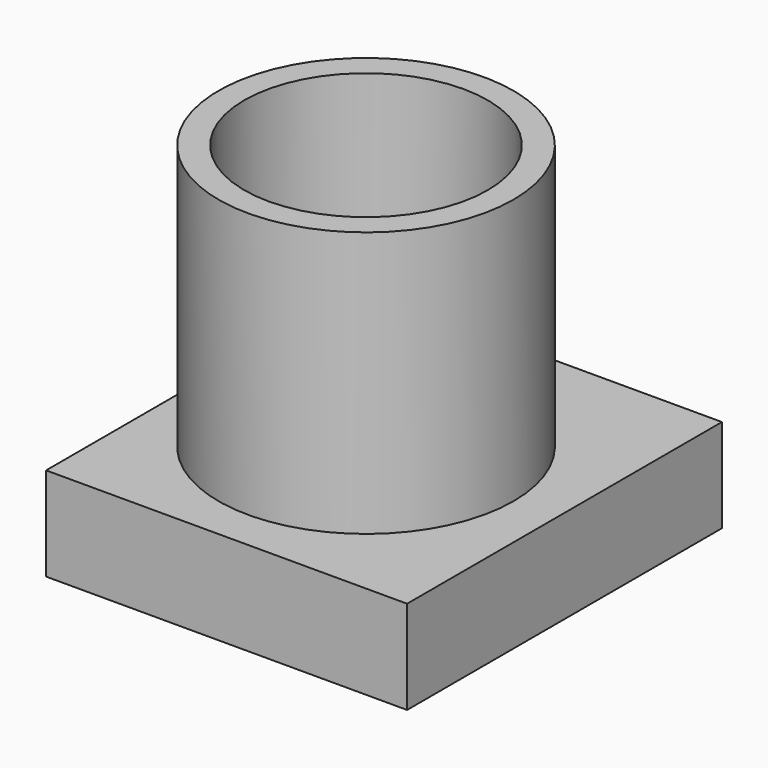
from build123d import *

# Parameters (mm, degrees)
F0_R        = 60.565035
F0_R_2      = 50
F1_DEPTH    = 109
F1_FACE_R   = 60.565035
F1_FACE_R_2 = 50
F2_DEPTH    = 25
F3_W        = 148.240149
F3_H        = 161.59083
F4_DEPTH    = 38.407663


with BuildPart() as f1:
    # F0 (on Top) → F1 (new body)
    with BuildSketch(Plane.XY):
        with Locations((-166.333571, 45.535278)):
            Circle(F0_R)
        with Locations((-166.333571, 45.535278)):
            Circle(F0_R_2, mode=Mode.SUBTRACT)
    extrude(amount=F1_DEPTH)

    # F1_face (on face) + F0 (on Top) → F2 (join)
    with BuildSketch(Plane(origin=(-166.333571, 45.535278, 0), x_dir=(1, 0, 0), z_dir=(0, 0, -1))):
        Circle(F1_FACE_R)
        Circle(F1_FACE_R_2, mode=Mode.SUBTRACT)
    with BuildSketch(Plane.XY):
        with Locations((-166.333571, 45.535278)):
            Circle(F0_R)
        with Locations((-166.333571, 45.535278)):
            Circle(F0_R_2, mode=Mode.SUBTRACT)
    extrude(amount=F2_DEPTH)

    # F3 (on Top) → F4 (join)
    with BuildSketch(Plane.XY):
        with Locations((-162.065908, 49.431123)):
            Rectangle(F3_W, F3_H)
    extrude(amount=-F4_DEPTH)


solid = f1.part
